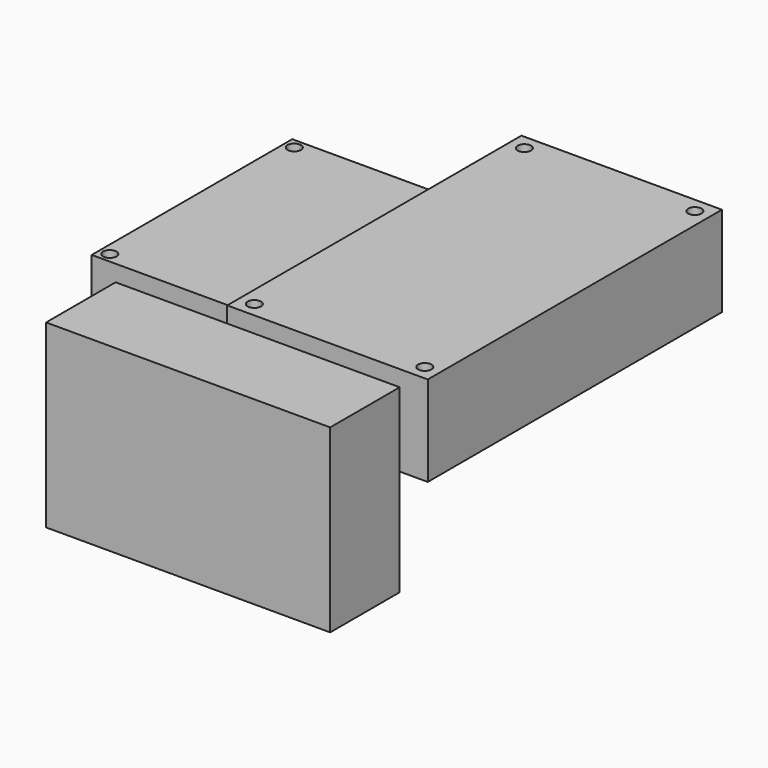
from build123d import *

# Parameters (mm, degrees)
F0_W     = 85
F0_H     = 54
F1_DEPTH = 26
F3_W     = 60
F3_H     = 75
F3_R     = 2
F4_DEPTH = 20
F2_W     = 60
F2_H     = 110
F2_R     = 2
F5_DEPTH = 27


with BuildPart() as f1:
    # F0 (on Front) → F1 (new body)
    with BuildSketch(Plane.XZ):
        with Locations((-5.079324, 5.954182)):
            Rectangle(F0_W, F0_H)
    extrude(amount=F1_DEPTH)


with BuildPart() as f4:
    # F3 (on Top) → F4 (new body)
    with BuildSketch(Plane.XY):
        with Locations((-46.136814, 64.271254)):
            Rectangle(F3_W, F3_H)
        with Locations((-73.136814, 29.771254)):
            Circle(F3_R, mode=Mode.SUBTRACT)
        with Locations((-19.136814, 29.771254)):
            Circle(F3_R, mode=Mode.SUBTRACT)
        with Locations((-73.136814, 98.771254)):
            Circle(F3_R, mode=Mode.SUBTRACT)
        with Locations((-19.136814, 98.771254)):
            Circle(F3_R, mode=Mode.SUBTRACT)
    extrude(amount=F4_DEPTH)


with BuildPart() as f5:
    # F2 (on Top) → F5 (new body)
    with BuildSketch(Plane.XY):
        with Locations((2.935512, 71.111426)):
            Rectangle(F2_W, F2_H)
        with Locations((-22.564488, 20.611426)):
            Circle(F2_R, mode=Mode.SUBTRACT)
        with Locations((28.435512, 20.611426)):
            Circle(F2_R, mode=Mode.SUBTRACT)
        with Locations((-22.564488, 121.611426)):
            Circle(F2_R, mode=Mode.SUBTRACT)
        with Locations((28.435512, 121.611426)):
            Circle(F2_R, mode=Mode.SUBTRACT)
    extrude(amount=F5_DEPTH)


solid = Compound([f1.part, f4.part, f5.part])
